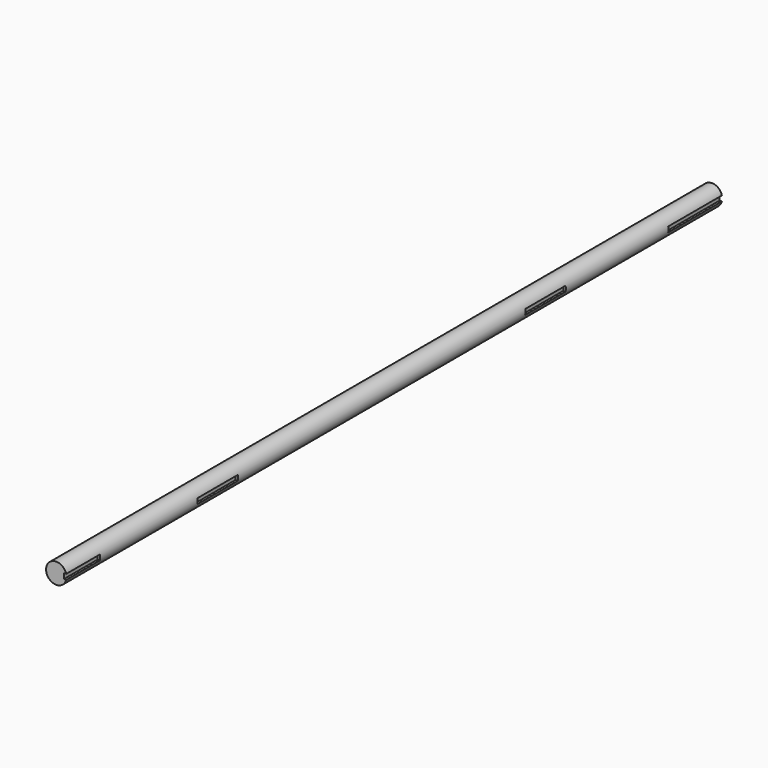
from build123d import *

# Parameters (mm, degrees)
F0_R     = 30.95625
F2_DEPTH = 2476.5
F3_W     = 127
F3_H     = 15.875
F3_W_2   = 152.4
F3_W_3   = 203.2
F4_DEPTH = 7.9375


with BuildPart() as f2:
    # F0 (on Front) → F2 (new body)
    with BuildSketch(Plane.XZ):
        Circle(F0_R)
    extrude(amount=-F2_DEPTH)

    # F3 (on offset) → F4 (cut)
    with BuildSketch(Plane.YZ.offset(30.95625)):
        with Locations((63.5, 0)):
            Rectangle(F3_W, F3_H)
        with Locations((571.5, 0)):
            Rectangle(F3_W_2, F3_H)
        with Locations((1809.75, 0)):
            Rectangle(F3_W_2, F3_H)
        with Locations((2374.9, 0)):
            Rectangle(F3_W_3, F3_H)
    extrude(amount=-F4_DEPTH, mode=Mode.SUBTRACT)


solid = f2.part
